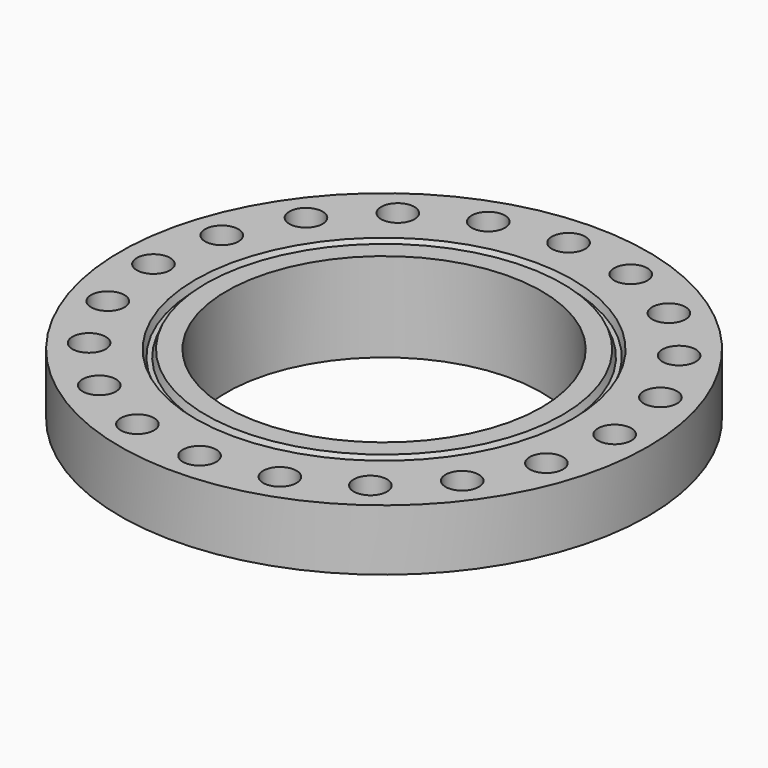
from build123d import *

# Parameters (mm, degrees)
F0_R     = 301.625
F1_DEPTH = 69.85
F2_R     = 215.9
F3_DEPTH = 32.0625
F3_TAPER = 3
F4_R     = 180
F5_DEPTH = 101.9135
F10_D    = 38.1


with BuildPart() as f1:
    # F0 (on Top) → F1 (new body)
    with BuildSketch(Plane.XY):
        Circle(F0_R)
    extrude(amount=-F1_DEPTH)

    # F2 (on face) → F3 (join)
    with BuildSketch(Plane(origin=(0, 0, -69.85), x_dir=(1, 0, 0), z_dir=(0, 0, -1))):
        Circle(F2_R)
    extrude(amount=F3_DEPTH, taper=F3_TAPER)

    # F4 (on face) → F5 (cut, through all)
    with BuildSketch(Plane(origin=(0, 0, -101.9125), x_dir=(1, 0, 0), z_dir=(0, 0, -1))):
        Circle(F4_R)
    extrude(amount=-F5_DEPTH, mode=Mode.SUBTRACT)

    # F6 (on Front) → F8 (revolve, cut)
    with BuildSketch(Plane.XZ):
        Polygon((209.55, -7.9375), (209.55, 0), (203.596875, 0), (206.9661438537, -7.9375), align=None)
        Polygon((215.503125, 0), (209.55, 0), (209.55, -7.9375), (212.1338561463, -7.9375), align=None)
    revolve(axis=Axis((0, 0, 0), (0, 0, 1)), mode=Mode.SUBTRACT)

    # F10 (through all)
    with Locations(Plane.XY):
        with Locations((263.525, 0), (250.6271684567, 81.4337034427), (213.1962034427, 154.8961086104), (154.8961086104, 213.1962034427), (81.4337034427, 250.6271684567), (0, 263.525), (-81.4337034427, 250.6271684567), (-154.8961086104, 213.1962034427), (-213.1962034427, 154.8961086104), (-250.6271684567, 81.4337034427), (-263.525, 0), (-250.6271684567, -81.4337034427), (-213.1962034427, -154.8961086104), (-154.8961086104, -213.1962034427), (-81.4337034427, -250.6271684567), (0, -263.525), (81.4337034427, -250.6271684567), (154.8961086104, -213.1962034427), (213.1962034427, -154.8961086104), (250.6271684567, -81.4337034427)):
            Hole(F10_D / 2)


solid = f1.part
